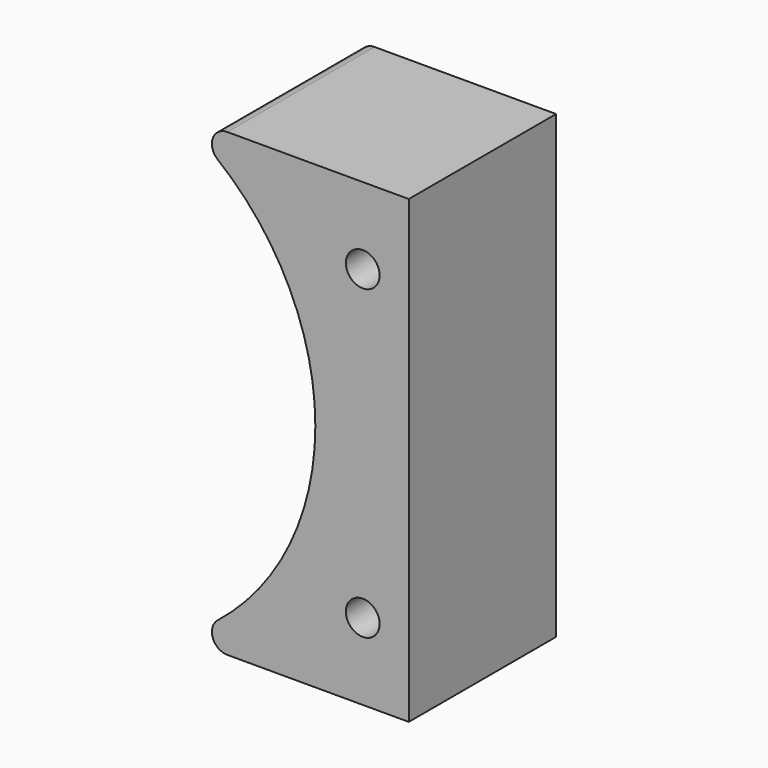
from build123d import *

# Parameters (mm, degrees)
F0_W           = 75
F0_H           = 150
F1_DEPTH       = 30
F3_DEPTH       = 60.001
F5_D           = 11
F5_CBORE_D     = 18
F5_CBORE_DEPTH = 10


with BuildPart() as f1:
    # F0 (on Front) → F1 (new body, symmetric)
    with BuildSketch(Plane.XZ):
        Rectangle(F0_W, F0_H)
    extrude(amount=F1_DEPTH, both=True)

    # F2 (on face) → F3 (cut, through all)
    with BuildSketch(Plane.XZ.offset(30)):
        with BuildLine():
            ThreePointArc((-24.768539, -66.091569), (-1.31881, -36.675997), (7.05, 0))
            ThreePointArc((7.05, 0), (-1.31881, 36.675997), (-24.768539, 66.091569))
            ThreePointArc((-24.768539, 66.091569), (-162.05, 0), (-24.768539, -66.091569))
        make_face()
        with BuildLine():
            ThreePointArc((-37.5, 74.489613), (-30.944519, 70.578253), (-24.768539, 66.091569))
            ThreePointArc((-24.768539, 66.091569), (-26.369403, 71.651945), (-21.650179, 75))
            Line((-21.650179, 75), (-37.5, 75))
            Line((-37.5, 75), (-37.5, 74.489613))
        make_face()
        with BuildLine():
            ThreePointArc((-21.650179, -75), (-26.369403, -71.651945), (-24.768539, -66.091569))
            ThreePointArc((-24.768539, -66.091569), (-30.944519, -70.578253), (-37.5, -74.489613))
            Line((-37.5, -74.489613), (-37.5, -75))
            Line((-37.5, -75), (-21.650179, -75))
        make_face()
    extrude(amount=-F3_DEPTH, mode=Mode.SUBTRACT)

    # F5 (through all)
    with Locations(Plane(origin=(0, 30, 0), x_dir=(-1, 0, 0), z_dir=(0, 1, 0))):
        with Locations((-22.5, 50), (-22.5, -50)):
            CounterBoreHole(F5_D / 2, F5_CBORE_D / 2, F5_CBORE_DEPTH)


solid = f1.part
